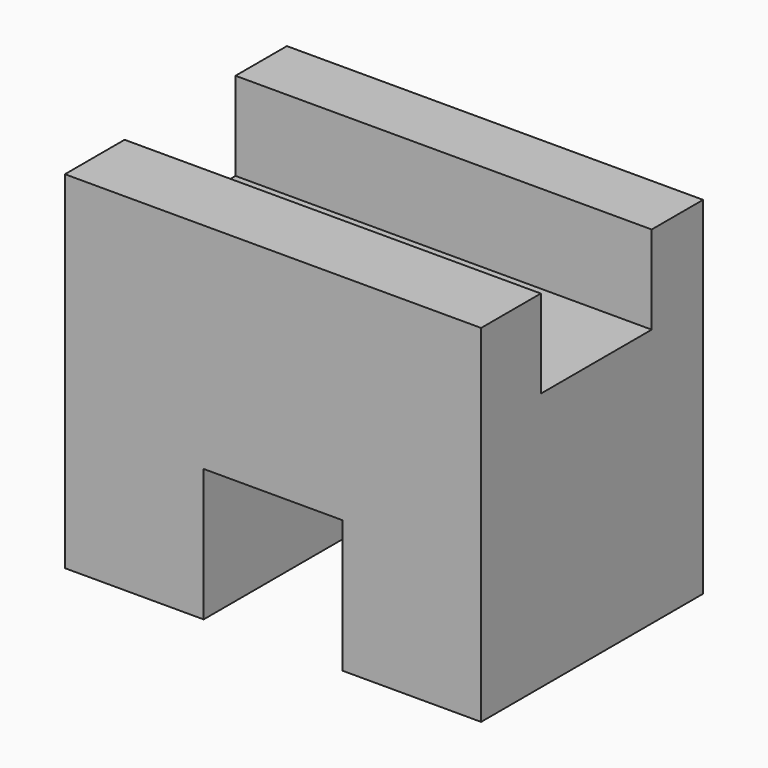
from build123d import *

# Parameters (mm, degrees)
F1_DEPTH = 25.4
F2_W     = 12.690172
F2_H     = 8.071992
F3_DEPTH = 38.1


with BuildPart() as f1:
    # F0 (on Front) → F1 (new body)
    with BuildSketch(Plane.XZ):
        Polygon((0, 31.75), (0, 0), (12.7, 0), (12.7, 12.128297), (25.4, 12.128297), (25.4, 0), (38.1, 0), (38.1, 31.75), align=None)
        Polygon((0, 31.75), (0, 0), (12.7, 0), (12.7, 12.128297), (25.4, 12.128297), (25.4, 0), (38.1, 0), (38.1, 31.75), align=None)
    extrude(amount=F1_DEPTH)

    # F2 (on face) → F3 (cut)
    with BuildSketch(Plane.YZ.offset(38.1)):
        with Locations((-12.2259, 27.714004)):
            Rectangle(F2_W, F2_H)
    extrude(amount=-F3_DEPTH, mode=Mode.SUBTRACT)


solid = f1.part
